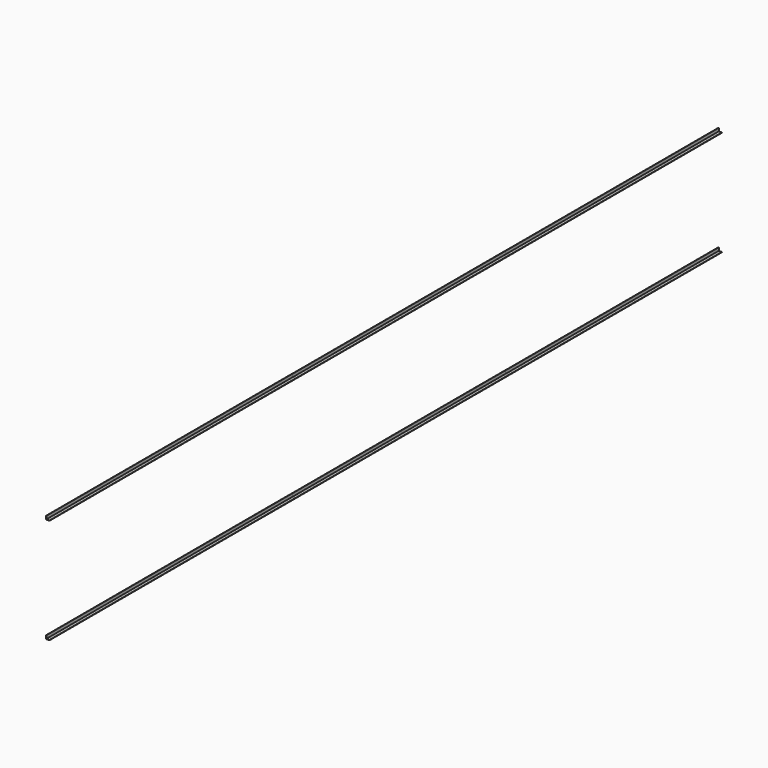
from build123d import *

# Parameters (mm, degrees)
PAD013_DEPTH     = 3000
ARRAY004_Y_COUNT = 3
ARRAY004_Y_PITCH = 2600.0034615362
ARRAY004_Z_COUNT = 2
ARRAY004_Z_PITCH = 1025


with BuildPart() as array004:
    # Sketch015 → Pad013 (new body)
    with BuildSketch(Plane(origin=(117.4999999985, 105.0000000003, 483.0000000002), x_dir=(1, 0, 0), z_dir=(0, -1, 0))):
        Polygon((0, 0), (30, 0), (30, -3), (-3, -3), (-3, 30), (0, 30), align=None)
    extrude(amount=-PAD013_DEPTH)


with BuildPart() as array004_copy1:
    # Array004 Y: instance of Array004
    add(array004.part.moved(Location(Vector(-0.0011538446, 0.9999986686, -0.0011538446) * (1 * ARRAY004_Y_PITCH))))


with BuildPart() as array004_copy2:
    # Array004 Y: instance of Array004
    add(array004.part.moved(Location(Vector(-0.0011538446, 0.9999986686, -0.0011538446) * (2 * ARRAY004_Y_PITCH))))


with BuildPart() as array004_copy3:
    # Array004 Z: instance of Array004
    add(array004.part.moved(Location(Vector(0, 0, 1) * (1 * ARRAY004_Z_PITCH))))


with BuildPart() as array004_copy4:
    # Array004 Z: instance of Array004 copy1
    add(array004_copy1.part.moved(Location(Vector(0, 0, 1) * (1 * ARRAY004_Z_PITCH))))


with BuildPart() as array004_copy5:
    # Array004 Z: instance of Array004 copy2
    add(array004_copy2.part.moved(Location(Vector(0, 0, 1) * (1 * ARRAY004_Z_PITCH))))


solid = Compound([array004.part, array004_copy1.part, array004_copy2.part, array004_copy3.part, array004_copy4.part, array004_copy5.part])
